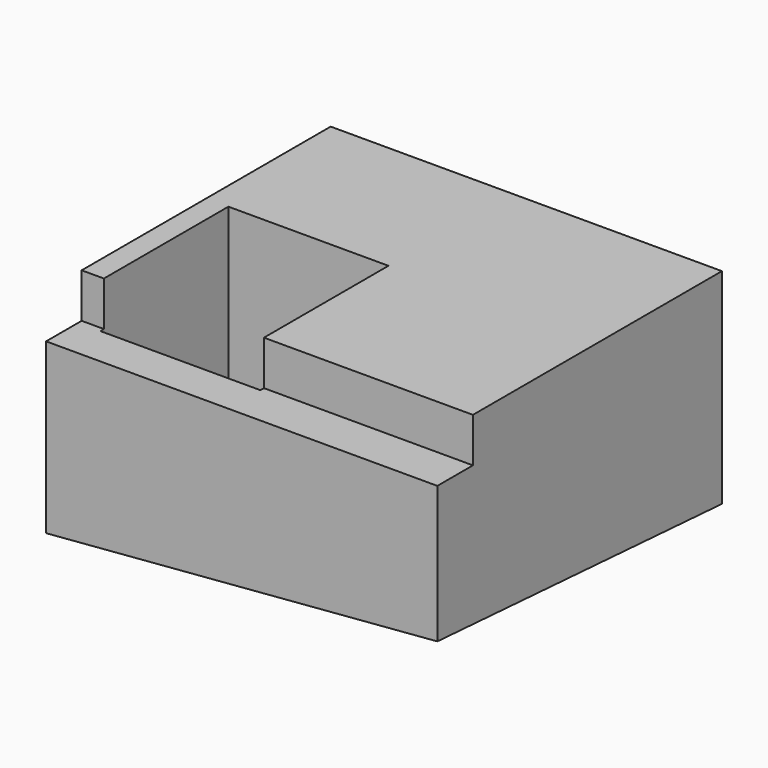
from build123d import *

# Parameters (mm, degrees)
BOX003_W               = 24
BOX003_H               = 23
BOX003_DEPTH           = 10
BOX003_ROLL_ANGLE      = -3.785379
BOX003_PITCH_ANGLE     = -4.658595
BOX003_PLACEMENT_ANGLE = 0.154031
BOX002_W               = 22
BOX002_H               = 2.5
BOX002_DEPTH           = 2.5
BOX001_W               = 9
BOX001_H               = 9
BOX001_DEPTH           = 11
BOX_W                  = 22
BOX_H                  = 20
BOX_DEPTH              = 15


with BuildPart() as cube003:
    # Box003 → Box003 (new body)
    with BuildSketch(Plane.XY):
        with Locations((12, 11.5)):
            Rectangle(BOX003_W, BOX003_H)
    extrude(amount=BOX003_DEPTH)


with BuildPart() as cube003_1:
    # Box003 roll: moved
    add(cube003.part.rotate(Axis((0, 0, 0), (1, 0, 0)), BOX003_ROLL_ANGLE))


with BuildPart() as cube003_2:
    # Box003 pitch: moved
    add(cube003_1.part.rotate(Axis((0, 0, 0), (0, 1, 0)), BOX003_PITCH_ANGLE))


with BuildPart() as cube003_3:
    # Box003 placement: moved
    add(cube003_2.part.moved(Location((-1, -2, -7))).rotate(Axis((-1, -2, -7), (0, 0, 1)), BOX003_PLACEMENT_ANGLE))


with BuildPart() as cube002:
    # Box002 → Box002 (new body)
    with BuildSketch(Plane.XY.offset(12.5)):
        with Locations((11, 1.25)):
            Rectangle(BOX002_W, BOX002_H)
    extrude(amount=BOX002_DEPTH)


with BuildPart() as cube001:
    # Box001 → Box001 (new body)
    with BuildSketch(Plane(origin=(1.25, 2.25, 4), x_dir=(1, 0, 0), z_dir=(0, 0, 1))):
        with Locations((4.5, 4.5)):
            Rectangle(BOX001_W, BOX001_H)
    extrude(amount=BOX001_DEPTH)


with BuildPart() as cut002:
    # Box → Box (new body)
    with BuildSketch(Plane.XY):
        with Locations((11, 10)):
            Rectangle(BOX_W, BOX_H)
    extrude(amount=BOX_DEPTH)

    # Cut: cut Cube001
    add(cube001.part, mode=Mode.SUBTRACT)

    # Cut001: cut Cube002
    add(cube002.part, mode=Mode.SUBTRACT)

    # Cut002: cut Cube003
    add(cube003_3.part, mode=Mode.SUBTRACT)


solid = cut002.part
